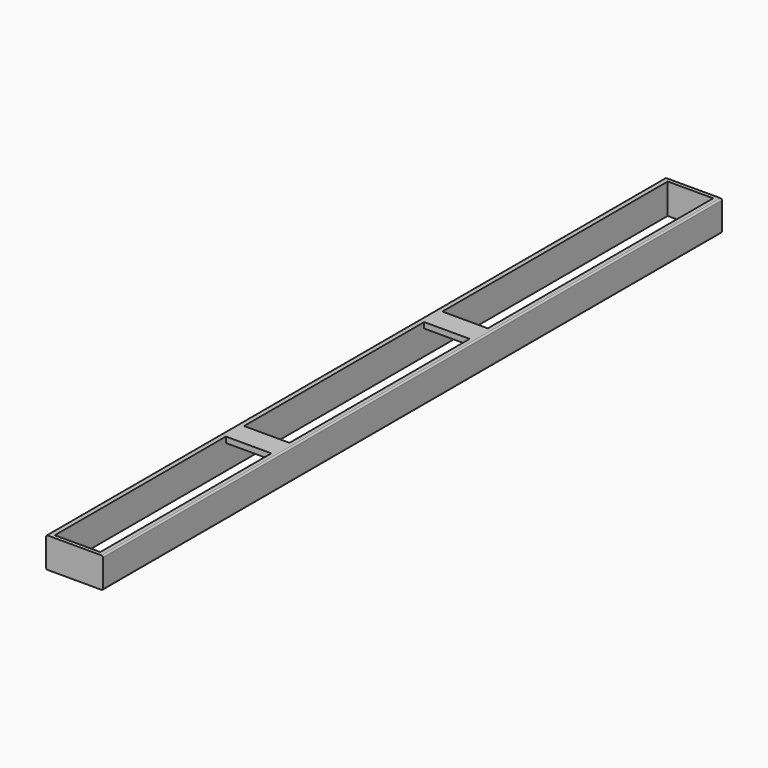
from build123d import *

# Parameters (mm, degrees)
F1_DEPTH = 1020
F2_W     = 60
F2_H     = 281.83
F2_H_2   = 296.83
F2_H_3   = 371.34
F3_DEPTH = 60
F4_DEPTH = 32.5
F5_R     = 2


with BuildPart() as f1:
    # F0 (on Front) → F1 (new body)
    with BuildSketch(Plane.XZ):
        Polygon((30, -20), (37.5, -20), (37.5, 20), (-37.5, 20), (-37.5, -20), (-30, -20), (-30, -12.5), (-30, 12.5), (30, 12.5), (30, -12.5), align=None)
    extrude(amount=F1_DEPTH)

    # F2 (on face) → F3 (cut)
    with BuildSketch(Plane.XY.offset(20)):
        with Locations((0, -874.085)):
            Rectangle(F2_W, F2_H)
        with Locations((0, -554.755)):
            Rectangle(F2_W, F2_H_2)
        with Locations((0, -190.67)):
            Rectangle(F2_W, F2_H_3)
    extrude(amount=-F3_DEPTH, mode=Mode.SUBTRACT)

    # F4 (add): faces of the model
    f4_faces = [f1.faces().sort_by_distance(p)[0] for p in [
        (0, -2.5, 12.5),
        (0, -1017.5, 12.5),
    ]]
    extrude(f4_faces, amount=F4_DEPTH)

    # F5
    f5_edges = [f1.edges().sort_by_distance(p)[0] for p in [
        (37.5, -510, 20),
        (-37.5, -510, 20),
        (37.5, -510, -20),
        (-37.5, -510, -20),
    ]]
    fillet(f5_edges, radius=F5_R)


solid = f1.part
